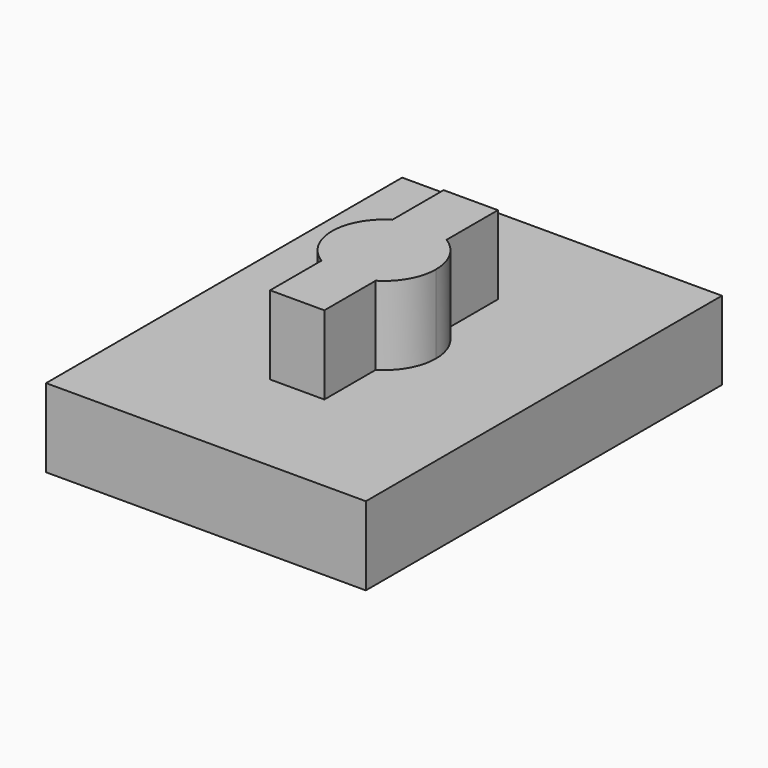
from build123d import *

# Parameters (mm, degrees)
F1_DEPTH = 25.4
F0_W     = 51.7266914248
F0_H     = 71.9938799739
F2_DEPTH = 12.7


with BuildPart() as f1:
    # F0 (on Top) → F1 (new body)
    with BuildSketch(Plane.XY):
        with BuildLine():
            ThreePointArc((4.3861824088, -7.1647320158), (7.3286779539, -4.1063926297), (8.4007131233, 0))
            ThreePointArc((8.4007131233, 0), (7.3286779539, 4.1063926297), (4.3861824088, 7.1647320158))
            Line((4.3861824088, 7.1647320158), (4.3861824088, -7.1647320158))
        make_face()
        with BuildLine():
            Line((4.3861824088, -7.1647320158), (4.3861824088, 7.1647320158))
            ThreePointArc((4.3861824088, 7.1647320158), (0, 8.4007131233), (-4.3861824088, 7.1647320158))
            Line((-4.3861824088, 7.1647320158), (-4.3861824088, -7.1647320158))
            ThreePointArc((-4.3861824088, -7.1647320158), (0, -8.4007131233), (4.3861824088, -7.1647320158))
        make_face()
        with BuildLine():
            Line((-4.3861824088, -7.1647320158), (-4.3861824088, 7.1647320158))
            ThreePointArc((-4.3861824088, 7.1647320158), (-8.4007131233, 0), (-4.3861824088, -7.1647320158))
        make_face()
        with BuildLine():
            Line((4.3861824088, -17.5447259098), (4.3861824088, -7.1647320158))
            ThreePointArc((4.3861824088, -7.1647320158), (0, -8.4007131233), (-4.3861824088, -7.1647320158))
            Line((-4.3861824088, -7.1647320158), (-4.3861824088, -17.5447259098))
            Line((-4.3861824088, -17.5447259098), (4.3861824088, -17.5447259098))
        make_face()
        with BuildLine():
            ThreePointArc((-4.3861824088, 7.1647320158), (0, 8.4007131233), (4.3861824088, 7.1647320158))
            Line((4.3861824088, 7.1647320158), (4.3861824088, 17.5447259098))
            Line((4.3861824088, 17.5447259098), (-4.3861824088, 17.5447259098))
            Line((-4.3861824088, 17.5447259098), (-4.3861824088, 7.1647320158))
        make_face()
    extrude(amount=F1_DEPTH)

    # F0 (on Top) → F2 (join)
    with BuildSketch(Plane.XY):
        Rectangle(F0_W, F0_H)
        with BuildLine():
            ThreePointArc((4.3861824088, 7.1647320158), (7.3286779539, 4.1063926297), (8.4007131233, 0))
            ThreePointArc((8.4007131233, 0), (7.3286779539, -4.1063926297), (4.3861824088, -7.1647320158))
            Line((4.3861824088, -7.1647320158), (4.3861824088, -17.5447259098))
            Line((4.3861824088, -17.5447259098), (-4.3861824088, -17.5447259098))
            Line((-4.3861824088, -17.5447259098), (-4.3861824088, -7.1647320158))
            ThreePointArc((-4.3861824088, -7.1647320158), (-8.4007131233, 0), (-4.3861824088, 7.1647320158))
            Line((-4.3861824088, 7.1647320158), (-4.3861824088, 17.5447259098))
            Line((-4.3861824088, 17.5447259098), (4.3861824088, 17.5447259098))
            Line((4.3861824088, 17.5447259098), (4.3861824088, 7.1647320158))
        make_face(mode=Mode.SUBTRACT)
    extrude(amount=F2_DEPTH)


solid = f1.part
